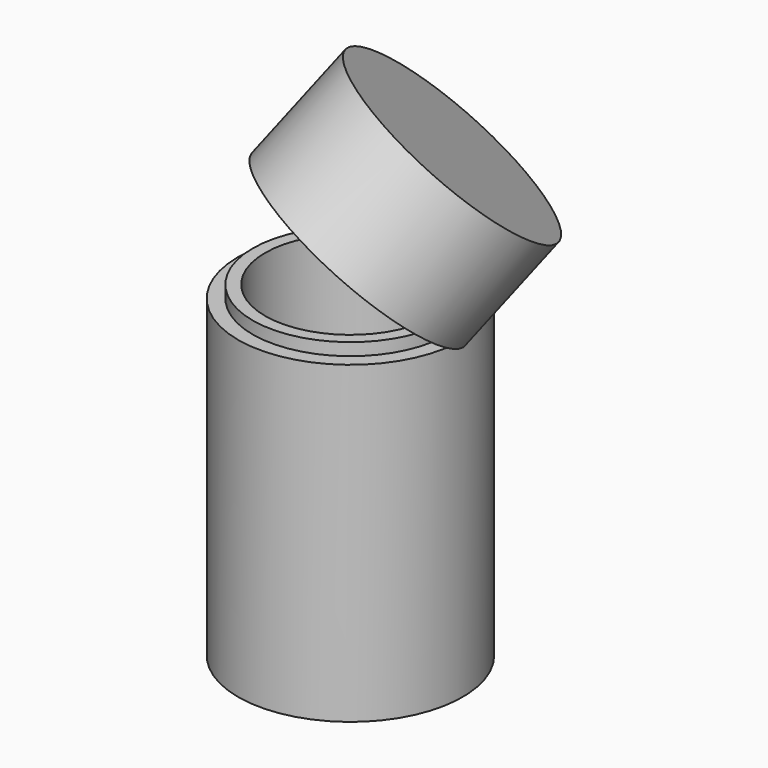
from build123d import *

# Parameters (mm, degrees)
CLONE_ROLL_ANGLE  = -30
CLONE_PITCH_ANGLE = 30


with BuildPart() as top_clone:
    # Sketch → Revolution (revolve)
    with BuildSketch(Plane.XZ):
        Polygon((0, 25), (-25, 25), (-25, 0), (-22, 0), (-22, 3), (-19, 3), (-19, 23), (0, 23), align=None)
    revolve(axis=Axis((0, 0, 0), (0, 0, 1)))


with BuildPart() as top_clone_1:
    # Clone roll: moved
    add(top_clone.part.rotate(Axis((0, 0, 0), (1, 0, 0)), CLONE_ROLL_ANGLE))


with BuildPart() as top_clone_2:
    # Clone pitch: moved
    add(top_clone_1.part.rotate(Axis((0, 0, 0), (0, 1, 0)), CLONE_PITCH_ANGLE))


with BuildPart() as top_clone_3:
    # Clone placement: moved
    add(top_clone_2.part.moved(Location((15.245191, -16.810889, 21.405445))))


with BuildPart() as top_clone_4:
    # Body002 placement: moved
    add(top_clone_3.part.moved(Location((89, 0, 0))))


with BuildPart() as bottom_clone:
    # Sketch001 → Revolution001 (revolve)
    with BuildSketch(Plane.XZ):
        Polygon((0, -70), (-25, -70), (-25, 0), (-21.75, 0), (-21.75, 2.75), (-19, 2.75), (-19, -68), (0, -68), align=None)
    revolve(axis=Axis((0, 0, 0), (0, 0, 1)))


with BuildPart() as bottom_clone_1:
    # Body003 placement: moved
    add(bottom_clone.part.moved(Location((89, 0, 0))))


solid = Compound([top_clone_4.part, bottom_clone_1.part])
